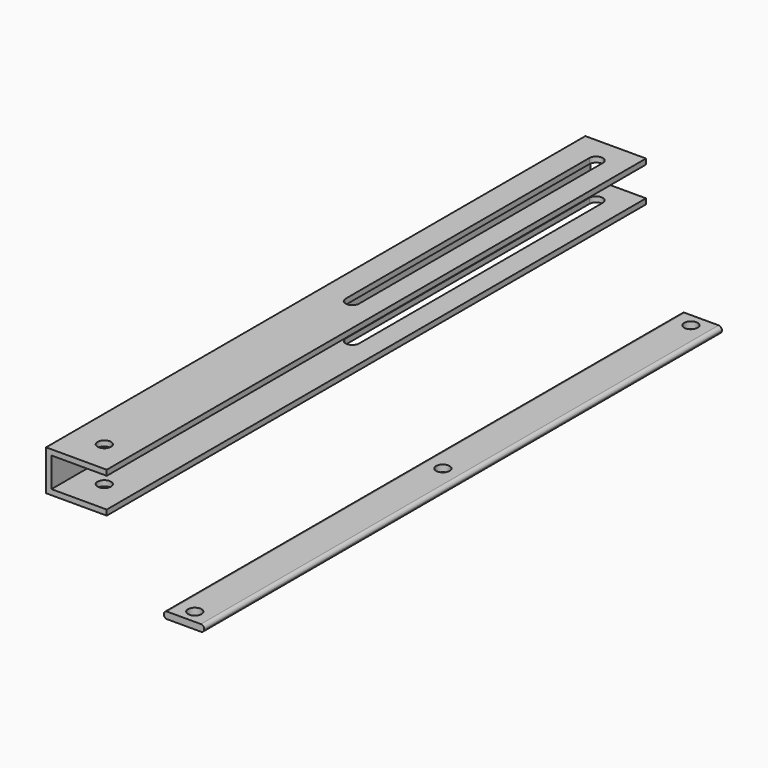
from build123d import *

# Parameters (mm, degrees)
F1_DEPTH = 304.8
F2_R     = 3.175
F3_DEPTH = 25.4
F4_W     = 28.575
F4_H     = 317.5
F5_DEPTH = 19.05
F6_T     = -2.54
F7_R     = 3.175
F8_DEPTH = 25.4


with BuildPart() as f1:
    # F0 (on Front) → F1 (new body)
    with BuildSketch(Plane.XZ):
        with BuildLine():
            Line((7.9375, 1.5875), (-7.9375, 1.5875))
            ThreePointArc((-7.9375, 1.5875), (-9.060032, 1.122532), (-9.525, 0))
            ThreePointArc((-9.525, 0), (-9.060032, -1.122532), (-7.9375, -1.5875))
            Line((-7.9375, -1.5875), (7.9375, -1.5875))
            ThreePointArc((7.9375, -1.5875), (9.060032, -1.122532), (9.525, 0))
            ThreePointArc((9.525, 0), (9.060032, 1.122532), (7.9375, 1.5875))
        make_face()
    extrude(amount=F1_DEPTH)

    # F2 (on face) → F3 (cut)
    with BuildSketch(Plane.XY.offset(1.5875)):
        with Locations((0, -298.45)):
            Circle(F2_R)
        with Locations((0, -152.4)):
            Circle(F2_R)
        with Locations((0, -6.35)):
            Circle(F2_R)
    extrude(amount=-F3_DEPTH, mode=Mode.SUBTRACT)


with BuildPart() as f5:
    # F4 (on Top) → F5 (new body)
    with BuildSketch(Plane.XY):
        with Locations((-89.23593, -97.868138)):
            Rectangle(F4_W, F4_H)
    extrude(amount=F5_DEPTH)

    # F6
    f6_openings = [f5.faces().sort_by_distance(p)[0] for p in [
        (-74.94843, -97.868138, 9.525),
        (-89.23593, -256.618138, 9.525),
        (-89.23593, 60.881862, 9.525),
    ]]
    offset(amount=F6_T, openings=f6_openings)

    # F7 (on face) → F8 (cut)
    with BuildSketch(Plane.XY.offset(19.05)):
        with Locations((-88.28343, -241.378138)):
            Circle(F7_R)
        with BuildLine():
            Line((-91.45843, 48.181862), (-91.45843, -95.328138))
            ThreePointArc((-91.45843, -95.328138), (-88.28343, -98.503138), (-85.10843, -95.328138))
            Line((-85.10843, -95.328138), (-85.10843, 48.181862))
            ThreePointArc((-85.10843, 48.181862), (-88.28343, 51.356862), (-91.45843, 48.181862))
        make_face()
    extrude(amount=-F8_DEPTH, mode=Mode.SUBTRACT)


solid = Compound([f1.part, f5.part])
